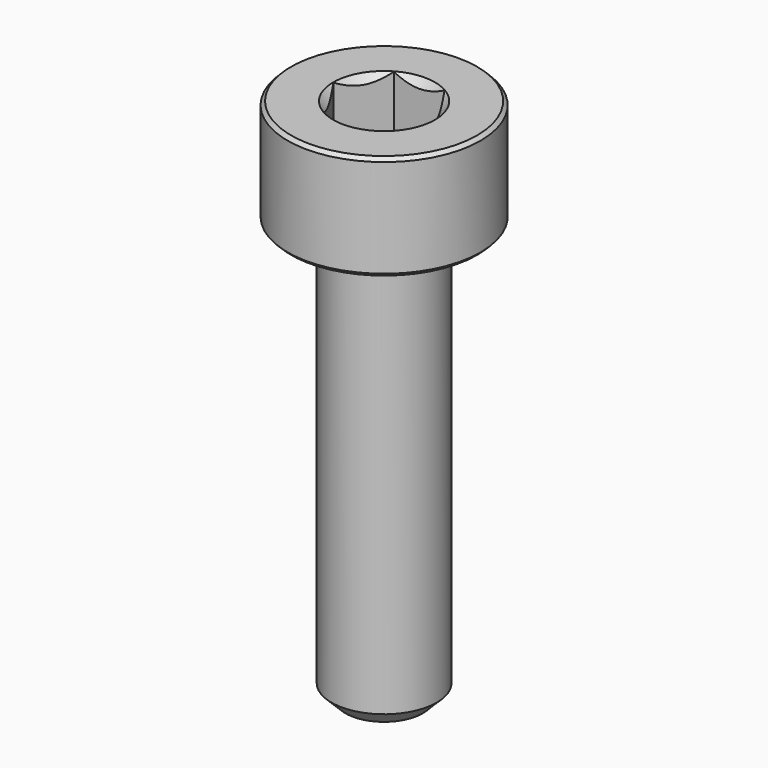
from build123d import *

# Parameters (mm, degrees)
SKETCH008_R     = 3.75
POCKET003_DEPTH = 9.70192
CHAMFER004_SIZE = 0.4
CHAMFER003_SIZE = 0.1


with BuildPart() as pocket003:
    # Sketch009 → Revolution003 (revolve)
    with BuildSketch(Plane.XZ):
        Polygon((0, 0.29908), (2.75, 1.3), (2.75, 10), (0, 10), align=None)
    revolve(axis=Axis((0, 0, 0), (0, 0, 1)))

    # Sketch008 (on Face3 of Revolution003) → Pocket003 (cut, through all)
    with BuildSketch(Plane(origin=(0, 0, 10), x_dir=(-1, 0, 0), z_dir=(0, 0, 1))):
        Circle(SKETCH008_R)
        Polygon((-0.721688, 1.25), (0.721688, 1.25), (1.443376, 0), (0.721688, -1.25), (-0.721688, -1.25), (-1.443376, 0), align=None, mode=Mode.SUBTRACT)
    extrude(amount=-POCKET003_DEPTH, mode=Mode.SUBTRACT)


with BuildPart() as chamfer003:
    # Sketch010 → Revolution004 (revolve)
    with BuildSketch(Plane.XZ):
        Polygon((1.45, 3), (2.75, 3), (2.75, 0), (1.5, 0), (1.5, -12), (0, -12), (0, 1.549999), align=None)
    revolve(axis=Axis((0, 0, 0), (0, 0, 1)))

    # Cut002: cut Pocket003
    add(pocket003.part, mode=Mode.SUBTRACT)

    # Chamfer004
    chamfer004_edges = [chamfer003.edges().sort_by_distance(p)[0] for p in [
        (-1.5, 0, -12),
    ]]
    chamfer(chamfer004_edges, length=CHAMFER004_SIZE)

    # Chamfer003
    chamfer003_edges = [chamfer003.edges().sort_by_distance(p)[0] for p in [
        (-2.75, 0, 0),
        (-2.75, 0, 3),
    ]]
    chamfer(chamfer003_edges, length=CHAMFER003_SIZE)


solid = chamfer003.part
